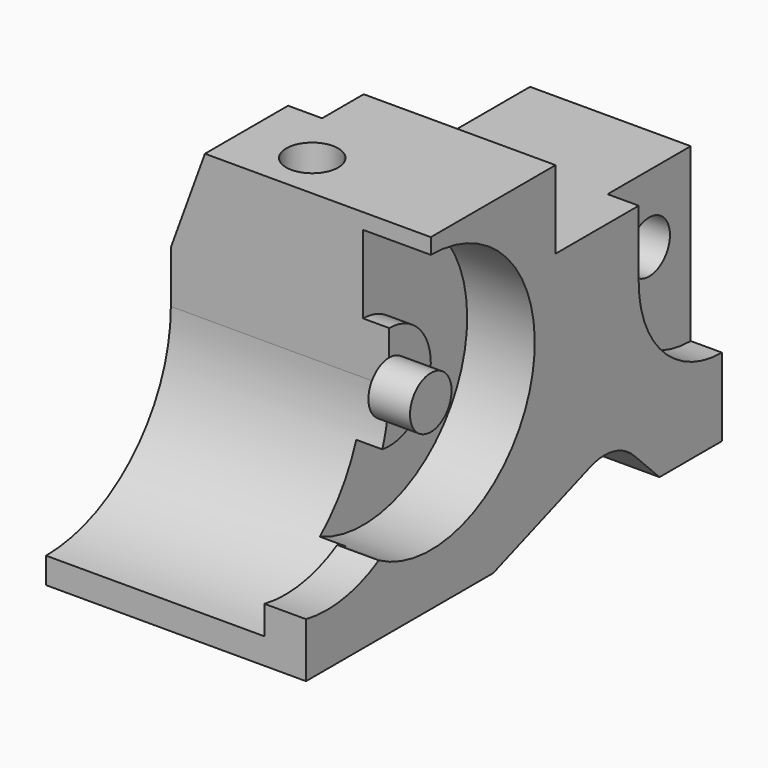
from build123d import *

# Parameters (mm, degrees)
F1_DEPTH  = 25
F3_DEPTH  = 42
F5_DEPTH  = 25
F6_R      = 25
F6_R_2    = 10
F7_DEPTH  = 13
F8_DEPTH  = 8
F9_R      = 5
F10_DEPTH = 8
F12_DEPTH = 70.001
F13_R     = 5
F14_DEPTH = 63.001
F16_DEPTH = 6
F17_R     = 5
F18_DEPTH = 44.001
F19_W     = 22.8362299633
F19_H     = 60.2628949208
F20_DEPTH = 63.001
F21_R     = 10


with BuildPart() as f1:
    # F0 (on Right) → F1 (new body, symmetric)
    with BuildSketch(Plane.YZ):
        Polygon((0, 63), (0, 0), (45, 0), (74.3261531631, 10.6738468369), (85, 0), (100, 0), (100, 48), (60, 48), (60, 63), align=None)
    extrude(amount=F1_DEPTH, both=True)

    # F2 (on face) → F3 (cut, through all)
    with BuildSketch(Plane(origin=(-25, 0, 0), x_dir=(0, -1, 0), z_dir=(-1, 0, 0))):
        with BuildLine():
            Line((0, 63), (-30, 63))
            Line((-30, 63), (-30, 35))
            ThreePointArc((-30, 35), (-21.2132034356, 13.7867965644), (0, 5))
            Line((0, 5), (0, 63))
        make_face()
    extrude(amount=-F3_DEPTH, mode=Mode.SUBTRACT)

    # F4 (on face) → F5 (cut)
    with BuildSketch(Plane.YZ.offset(25)):
        with BuildLine():
            Line((30, 35), (30, 63))
            Line((30, 63), (0, 63))
            Line((0, 63), (0, 10.5051025722))
            ThreePointArc((0, 10.5051025722), (20.8113883008, 15.635083269), (30, 35))
        make_face()
    extrude(amount=-F5_DEPTH, mode=Mode.SUBTRACT)

    # F6 (on face) → F7 (cut)
    with BuildSketch(Plane.YZ.offset(25)):
        with Locations((30, 35)):
            Circle(F6_R)
        with Locations((30, 35)):
            Circle(F6_R_2, mode=Mode.SUBTRACT)
    extrude(amount=-F7_DEPTH, mode=Mode.SUBTRACT)

    # F6 (on face) → F8 (cut)
    with BuildSketch(Plane.YZ.offset(25)):
        with BuildLine():
            ThreePointArc((28, 25.2020410289), (36.3245553203, 27.2540333076), (40, 35))
            ThreePointArc((40, 35), (37.0710678119, 42.0710678119), (30, 45))
            Line((30, 45), (30, 40))
            ThreePointArc((30, 40), (33.5355339059, 38.5355339059), (35, 35))
            ThreePointArc((35, 35), (33.3541019662, 31.2919007565), (29.5, 30.0250628145))
            ThreePointArc((29.5, 30.0250628145), (28.8721152139, 27.5755730717), (28, 25.2020410289))
        make_face()
        with BuildLine():
            Line((30, 40), (30, 45))
            ThreePointArc((30, 45), (20.0506384699, 36.0050896201), (28, 25.2020410289))
            ThreePointArc((28, 25.2020410289), (28.8721152139, 27.5755730717), (29.5, 30.0250628145))
            ThreePointArc((29.5, 30.0250628145), (25.0062696344, 35.2503138753), (30, 40))
        make_face()
        with BuildLine():
            Line((30, 35), (30, 40))
            ThreePointArc((30, 40), (25.0062696344, 35.2503138753), (29.5, 30.0250628145))
            ThreePointArc((29.5, 30.0250628145), (29.8746859277, 32.5), (30, 35))
        make_face()
        with BuildLine():
            ThreePointArc((35, 35), (33.5355339059, 38.5355339059), (30, 40))
            Line((30, 40), (30, 35))
            ThreePointArc((30, 35), (29.8746859277, 32.5), (29.5, 30.0250628145))
            ThreePointArc((29.5, 30.0250628145), (33.3541019662, 31.2919007565), (35, 35))
        make_face()
    extrude(amount=-F8_DEPTH, mode=Mode.SUBTRACT)

    # F9 (on face) → F10 (join)
    with BuildSketch(Plane.YZ.offset(17)):
        with Locations((30, 35)):
            Circle(F9_R)
    extrude(amount=F10_DEPTH)

    # F11 (on face) → F12 (cut, through all)
    with BuildSketch(Plane.XZ.offset(-30)):
        Polygon((-25, 45), (-18.4485357832, 63), (-25, 63), align=None)
    extrude(amount=-F12_DEPTH, mode=Mode.SUBTRACT)

    # F13 (on face) → F14 (cut, through all)
    with BuildSketch(Plane.XY.offset(63)):
        with Locations((-5, 39)):
            Circle(F13_R)
    extrude(amount=-F14_DEPTH, mode=Mode.SUBTRACT)

    # F15 (on face) → F16 (cut)
    with BuildSketch(Plane.YZ.offset(25)):
        with BuildLine():
            Line((100, 48), (80, 48))
            Line((80, 48), (80, 35))
            ThreePointArc((80, 35), (85.8578643763, 20.8578643763), (100, 15))
            Line((100, 15), (100, 48))
        make_face()
    extrude(amount=-F16_DEPTH, mode=Mode.SUBTRACT)

    # F17 (on face) → F18 (cut, through all)
    with BuildSketch(Plane.YZ.offset(19)):
        with Locations((90, 35)):
            Circle(F17_R)
    extrude(amount=-F18_DEPTH, mode=Mode.SUBTRACT)

    # F19 (on face) → F20 (cut, through all)
    with BuildSketch(Plane.XY.offset(63)):
        with Locations((-23.3262042789, 80.1314474604)):
            Rectangle(F19_W, F19_H)
    extrude(amount=-F20_DEPTH, mode=Mode.SUBTRACT)

    # F21
    f21_edges = [f1.edges().sort_by_distance(p)[0] for p in [
        (6.545955, 74.326153, 10.673847),
    ]]
    fillet(f21_edges, radius=F21_R)


solid = f1.part
